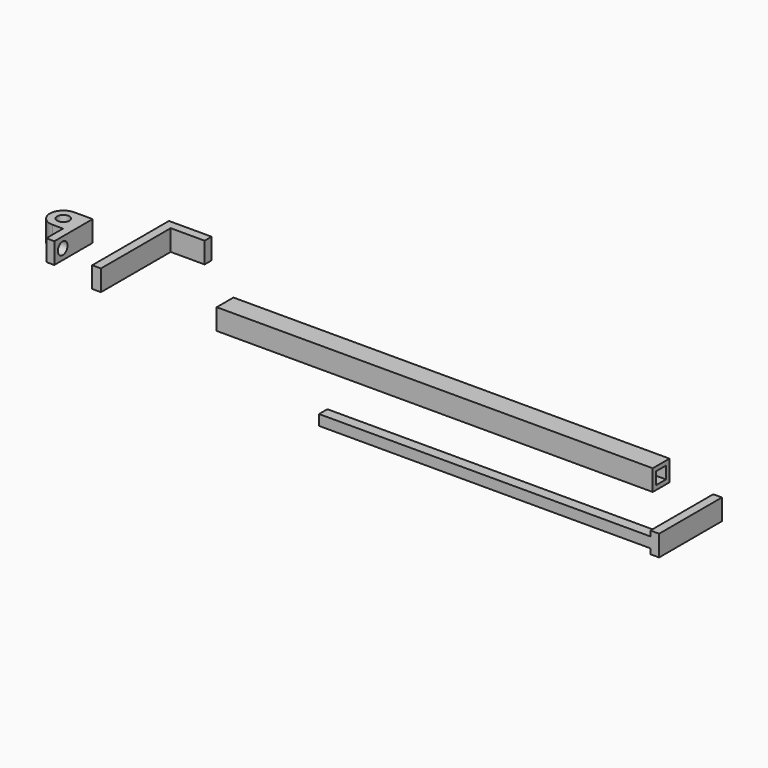
from build123d import *

# Parameters (mm, degrees)
F1_DEPTH  = 6.096
F2_W      = 127
F2_H      = 6.096
F3_DEPTH  = 6.096
F4_W      = 3.556
F4_H      = 3.556
F5_DEPTH  = 101.6
F7_DEPTH  = 6.096
F8_W      = 3.048
F8_H      = 3.048
F9_DEPTH  = 96.52
F10_R     = 1.778
F11_DEPTH = 6.096
F12_R     = 1.778
F13_DEPTH = 2.33841


with BuildPart() as f1:
    # F0 (on Top) → F1 (new body)
    with BuildSketch(Plane.XY):
        Polygon((-26.877569, 2.36775), (-26.877569, 4.90775), (-39.295337, 4.90775), (-39.295337, -23.03225), (-36.755337, -23.03225), (-36.755337, 2.36775), align=None)
    extrude(amount=F1_DEPTH)


with BuildPart() as f3:
    # F2 (on Top) → F3 (new body)
    with BuildSketch(Plane.XY):
        with Locations((59.228293, -18.435688)):
            Rectangle(F2_W, F2_H)
    extrude(amount=F3_DEPTH)

    # F4 (on face) → F5 (cut)
    with BuildSketch(Plane.YZ.offset(122.728293)):
        with Locations((-18.435688, 3.048)):
            Rectangle(F4_W, F4_H)
    extrude(amount=-F5_DEPTH, mode=Mode.SUBTRACT)


with BuildPart() as f7:
    # F6 (on Top) → F7 (new body)
    with BuildSketch(Plane.XY):
        Polygon((141.459931, -25.428247), (141.459931, -45.748247), (143.999931, -45.748247), (143.999931, -22.888247), (141.459931, -22.888247), align=None)
    extrude(amount=F7_DEPTH)

    # F8 (on face) → F9 (join)
    with BuildSketch(Plane(origin=(141.459931, 0, 0), x_dir=(0, -1, 0), z_dir=(-1, 0, 0))):
        with Locations((44.224247, 3.048)):
            Rectangle(F8_W, F8_H)
    extrude(amount=F9_DEPTH)


with BuildPart() as f11:
    # F10 (on Top) → F11 (new body)
    with BuildSketch(Plane.XY):
        Polygon((-55.746437, -19.194109), (-53.408027, -19.194109), (-53.408027, -5.224109), (-55.746437, -5.224109), (-55.746437, -13.098109), align=None)
        with BuildLine():
            Line((-58.794437, -13.098109), (-55.746437, -13.098109))
            Line((-55.746437, -13.098109), (-55.746437, -5.224109))
            Line((-55.746437, -5.224109), (-58.794437, -5.224109))
            ThreePointArc((-58.794437, -5.224109), (-62.731437, -9.161109), (-58.794437, -13.098109))
        make_face()
        with Locations((-58.794437, -9.161109)):
            Circle(F10_R, mode=Mode.SUBTRACT)
    extrude(amount=F11_DEPTH)

    # F12 (on face) → F13 (cut, through all)
    with BuildSketch(Plane(origin=(-55.746437, 0, 0), x_dir=(0, -1, 0), z_dir=(-1, 0, 0))):
        with Locations((16.146109, 3.048)):
            Circle(F12_R)
    extrude(amount=-F13_DEPTH, mode=Mode.SUBTRACT)


solid = Compound([f1.part, f3.part, f7.part, f11.part])
